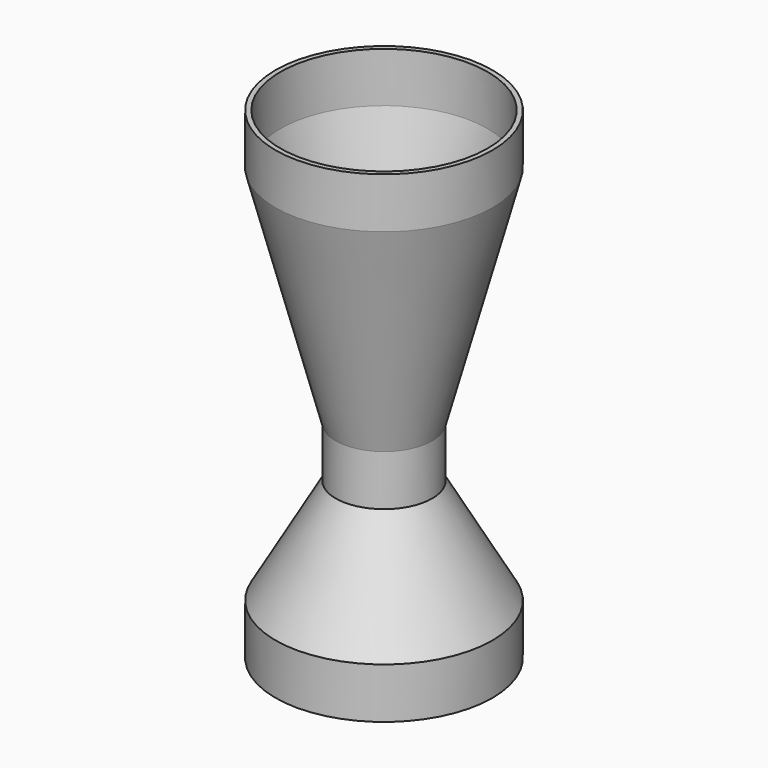
from build123d import *


with BuildPart() as f1:
    # F0 (on Front) → F1 (revolve)
    with BuildSketch(Plane.XZ):
        Polygon((22.86, 39.777045), (22.86, 50.445045), (0, 50.445045), (0, -51.154955), (22.86, -51.154955), (22.86, -40.486955), (10.16, -18.288), (10.16, -7.62), align=None)
    revolve(axis=Axis((0, 0, -0.354955), (0, 0, 1)))

    # F2 (on Front) → F3 (revolve, cut)
    with BuildSketch(Plane.XZ):
        with BuildLine():
            Line((10.439722, -2.650541), (21.844, 39.910804))
            Line((21.844, 39.910804), (21.844, 50.445045))
            Line((21.844, 50.445045), (0, 50.445045))
            Line((0, 50.445045), (0, -7.35704))
            Line((0, -7.35704), (4.306093, -7.35704))
            ThreePointArc((4.306093, -7.35704), (8.171728, -6.044834), (10.439722, -2.650541))
        make_face()
    revolve(axis=Axis((0, 0, 21.544003), (0, 0, 1)), mode=Mode.SUBTRACT)

    # F4 (on Front) → F5 (revolve, cut)
    with BuildSketch(Plane.XZ):
        with BuildLine():
            Line((21.844, -40.757043), (11.134297, -22.037026))
            ThreePointArc((11.134297, -22.037026), (8.808393, -19.697309), (5.622545, -18.840293))
            Line((5.622545, -18.840293), (0, -18.840293))
            Line((0, -18.840293), (0, -51.154955))
            Line((0, -51.154955), (21.844, -51.154955))
            Line((21.844, -51.154955), (21.844, -40.757043))
        make_face()
    revolve(axis=Axis((0, 0, -34.997624), (0, 0, -1)), mode=Mode.SUBTRACT)


solid = f1.part
